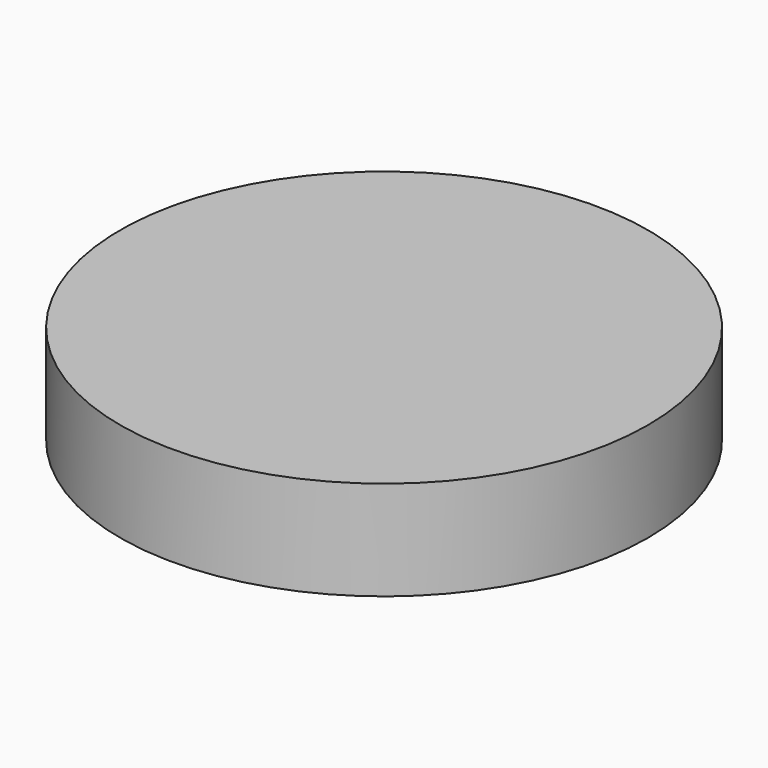
from build123d import *

# Parameters (mm, degrees)
F0_R     = 33.7721508447
F1_DEPTH = 233.68
F2_DEPTH = 231.14
F3_DEPTH = 10.16


with BuildPart() as f1:
    # F0 (on Top) → F1 (new body)
    with BuildSketch(Plane.XY):
        Circle(F0_R)
    extrude(amount=-F1_DEPTH)

    # F2 (cut): a face of the model
    f2_faces = [f1.faces().sort_by_distance(p)[0] for p in [
        (0, 0, 0),
    ]]
    extrude(f2_faces, amount=-F2_DEPTH, mode=Mode.SUBTRACT)

    # F3 (add): a face of the model
    f3_faces = [f1.faces().sort_by_distance(p)[0] for p in [
        (0, 0, -233.68),
    ]]
    extrude(f3_faces, amount=F3_DEPTH)


solid = f1.part
